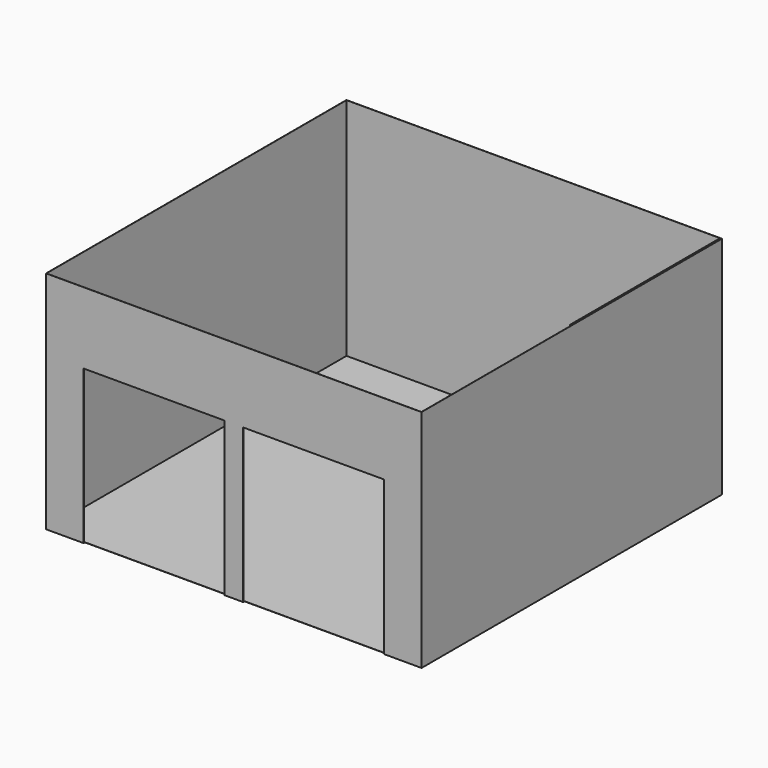
from build123d import *

# Parameters (mm, degrees)
F0_W     = 6096
F0_H     = 6096
F1_DEPTH = 3657.6
F2_T     = -2.54
F3_W     = 2286
F3_H     = 2496.532917
F4_DEPTH = 25.4
F5_W     = 3048
F5_H     = 1219.2
F6_DEPTH = 25.4


with BuildPart() as f1:
    # F0 (on Top) → F1 (new body)
    with BuildSketch(Plane.XY):
        with Locations((3048, 3048)):
            Rectangle(F0_W, F0_H)
    extrude(amount=F1_DEPTH)

    # F2
    f2_openings = [f1.faces().sort_by_distance(p)[0] for p in [
        (3048, 3048, 3657.6),
    ]]
    offset(amount=F2_T, openings=f2_openings)

    # F3 (on face) → F4 (cut)
    with BuildSketch(Plane.XZ):
        with Locations((1752.6, 1248.266458)):
            Rectangle(F3_W, F3_H)
        with Locations((4343.4, 1248.266458)):
            Rectangle(F3_W, F3_H)
    extrude(amount=-F4_DEPTH, mode=Mode.SUBTRACT)

    # F5 (on face) → F6 (join)
    with BuildSketch(Plane(origin=(6093.46, 0, 0), x_dir=(0, -1, 0), z_dir=(-1, 0, 0))):
        with Locations((-4569.46, 3048)):
            Rectangle(F5_W, F5_H)
    extrude(amount=F6_DEPTH)


solid = f1.part
